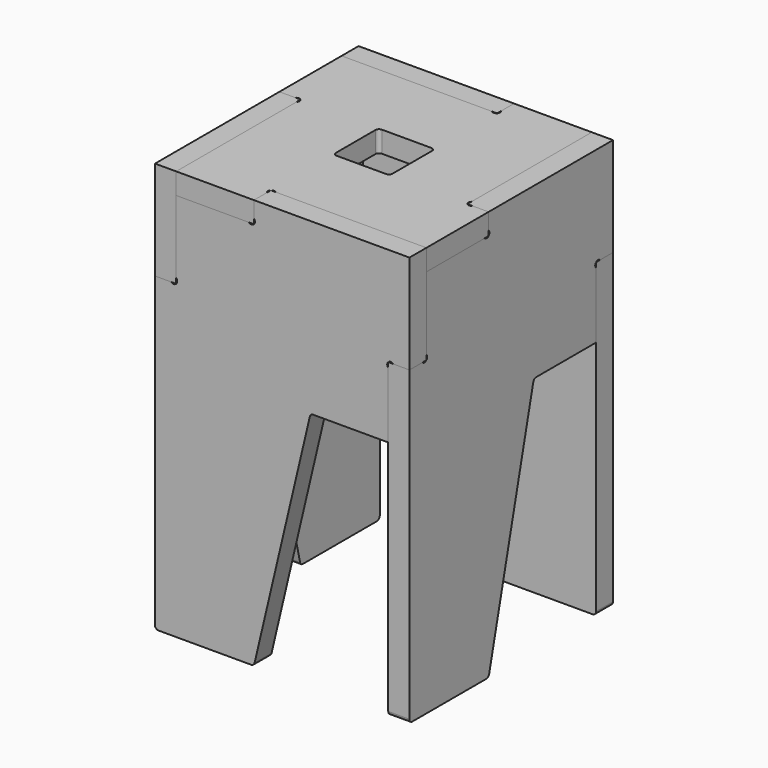
from build123d import *

# Parameters (mm, degrees)
F0_W      = 228.6
F0_H      = 228.6
F0_W_2    = 50.8
F0_H_2    = 50.8
F1_DEPTH  = 19.05
F2_W      = 139.7
F2_H      = 19.05
F2_W_2    = 19.05
F2_H_2    = 139.7
F3_DEPTH  = 19.051
F5_DEPTH  = 19.05
F7_R      = 3.175
F7_2_R    = 3.175
F8_R      = 3.175
F9_DEPTH  = 368.301
F10_R     = 3.175
F11_DEPTH = 228.601
F12_COUNT = 4


with BuildPart() as f1:
    # F0 (on Top) → F1 (new body)
    with BuildSketch(Plane.XY):
        Rectangle(F0_W, F0_H)
        Rectangle(F0_W_2, F0_H_2, mode=Mode.SUBTRACT)
    extrude(amount=-F1_DEPTH)

    # F2 (on face) → F3 (cut, through all)
    with BuildSketch(Plane.XY):
        with Locations((-44.45, 104.775)):
            Rectangle(F2_W, F2_H)
        with Locations((-115.6607142857, -1499.5877777778)):
            Rectangle(F2_W_2, F2_H_2)
        with Locations((1488.7020634921, -1570.7984920635)):
            Rectangle(F2_W, F2_H)
        with Locations((1559.9127777778, 33.5642857143)):
            Rectangle(F2_W_2, F2_H_2)
        with Locations((-104.775, -44.45)):
            Rectangle(F2_W_2, F2_H_2)
        with Locations((44.45, -104.775)):
            Rectangle(F2_W, F2_H)
        with Locations((104.775, 44.45)):
            Rectangle(F2_W_2, F2_H_2)
    extrude(amount=-F3_DEPTH, mode=Mode.SUBTRACT)

    # F7#2
    f7_2_edges = [f1.edges().sort_by_distance(p)[0] for p in [
        (25.4, 25.4, -9.525),
        (-25.4, 25.4, -9.525),
        (-25.4, -25.4, -9.525),
        (25.4, -25.4, -9.525),
    ]]
    fillet(f7_2_edges, radius=F7_2_R)

    # F8 (on face) → F9 (cut, through all)
    with BuildSketch(Plane.XY):
        with Locations((23.1549359697, 97.4950640303)):
            Circle(F8_R)
        with Locations((-97.4950640303, 23.1549359697)):
            Circle(F8_R)
        with Locations((-23.1549359697, -97.4950640303)):
            Circle(F8_R)
        with Locations((97.4950640303, -23.1549359697)):
            Circle(F8_R)
    extrude(amount=-F9_DEPTH, mode=Mode.SUBTRACT)


with BuildPart() as f5:
    # F4 (on face) → F5 (new body)
    with BuildSketch(Plane.XZ.offset(95.25)):
        Polygon((-25.4, 0), (-25.4, -19.05), (-95.25, -19.05), (-95.25, -88.9), (-114.3, -88.9), (-114.3, -368.3), (-25.4, -368.3), (25.4, -152.4), (95.25, -152.4), (95.25, -88.9), (114.3, -88.9), (114.3, 0), align=None)
    extrude(amount=F5_DEPTH)

    # F7
    f7_edges = [f5.edges().sort_by_distance(p)[0] for p in [
        (-25.4, -104.775, -368.3),
        (-114.3, -104.775, -368.3),
        (25.4, -104.775, -152.4),
    ]]
    fillet(f7_edges, radius=F7_R)

    # F10 (on face) → F11 (cut, through all)
    with BuildSketch(Plane.XZ.offset(114.3)):
        with Locations((-27.6450640303, -16.8049359697)):
            Circle(F10_R)
        with Locations((-97.4950640303, -86.6549359697)):
            Circle(F10_R)
        with Locations((97.4950640303, -91.1450640303)):
            Circle(F10_R)
    extrude(amount=-F11_DEPTH, mode=Mode.SUBTRACT)


with BuildPart() as f12_1:
    # F12: instance of F5
    add(f5.part.rotate(Axis((0, 0, 86.6945013404), (0, 0, 1)), 1 * 360 / F12_COUNT))


with BuildPart() as f12_2:
    # F12: instance of F5
    add(f5.part.rotate(Axis((0, 0, 86.6945013404), (0, 0, 1)), 2 * 360 / F12_COUNT))


with BuildPart() as f12_3:
    # F12: instance of F5
    add(f5.part.rotate(Axis((0, 0, 86.6945013404), (0, 0, 1)), 3 * 360 / F12_COUNT))


solid = Compound([f1.part, f5.part, f12_1.part, f12_2.part, f12_3.part])
